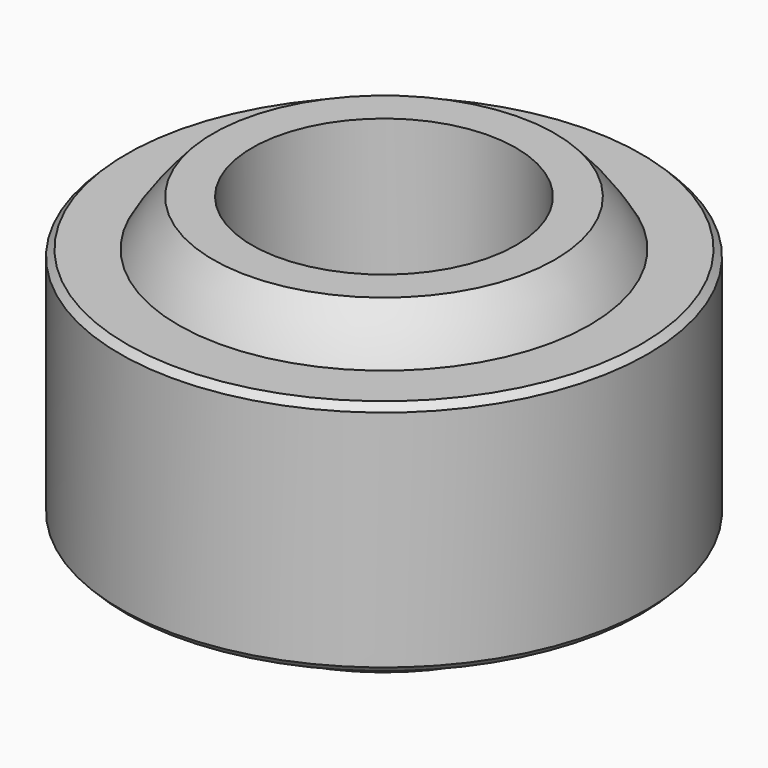
from build123d import *

# Parameters (mm, degrees)
F0_R          = 20
F1_DEPTH      = 9
F5_W          = 61.494613611
F5_H          = 42.5213627827
F5_W_2        = 50.2453296907
F5_H_2        = 22.91888696
F6_DEPTH      = 20.001
F6_DEPTH_BACK = 20.001
F7_R          = 10
F8_DEPTH      = 25.001
F9_SIZE       = 0.5


with BuildPart() as f1:
    # F0 (on Top) → F1 (new body, symmetric)
    with BuildSketch(Plane.XY):
        Circle(F0_R)
    extrude(amount=F1_DEPTH, both=True)

    # F2 (on Front) → F3 (revolve, cut)
    with BuildSketch(Plane.XZ):
        with BuildLine():
            Line((0, 18), (0, -18))
            ThreePointArc((0, -18), (18, 0), (0, 18))
        make_face()
    revolve(axis=Axis((0, 0, -3.5514803869), (0, 0, -1)), mode=Mode.SUBTRACT)

    # F9
    f9_edges = [f1.edges().sort_by_distance(p)[0] for p in [
        (-20, 0, 9),
        (-20, 0, -9),
    ]]
    chamfer(f9_edges, length=F9_SIZE)


with BuildPart() as f4:
    # F2 (on Front) → F4 (revolve)
    with BuildSketch(Plane.XZ):
        with BuildLine():
            Line((0, 18), (0, -18))
            ThreePointArc((0, -18), (18, 0), (0, 18))
        make_face()
    revolve(axis=Axis((0, 0, -3.5514803869), (0, 0, -1)))

    # F5 (on Front) → F6 (cut, two sides)
    with BuildSketch(Plane.XZ) as f6_sk:
        with Locations((0, -33.7606813913)):
            Rectangle(F5_W, F5_H)
        with Locations((0, 23.95944348)):
            Rectangle(F5_W_2, F5_H_2)
    extrude(amount=-F6_DEPTH, mode=Mode.SUBTRACT)
    extrude(f6_sk.sketch, amount=F6_DEPTH_BACK, mode=Mode.SUBTRACT)

    # F7 (on face) → F8 (cut, through all)
    with BuildSketch(Plane.XY.offset(12.5)):
        Circle(F7_R)
    extrude(amount=-F8_DEPTH, mode=Mode.SUBTRACT)


solid = Compound([f1.part, f4.part])
